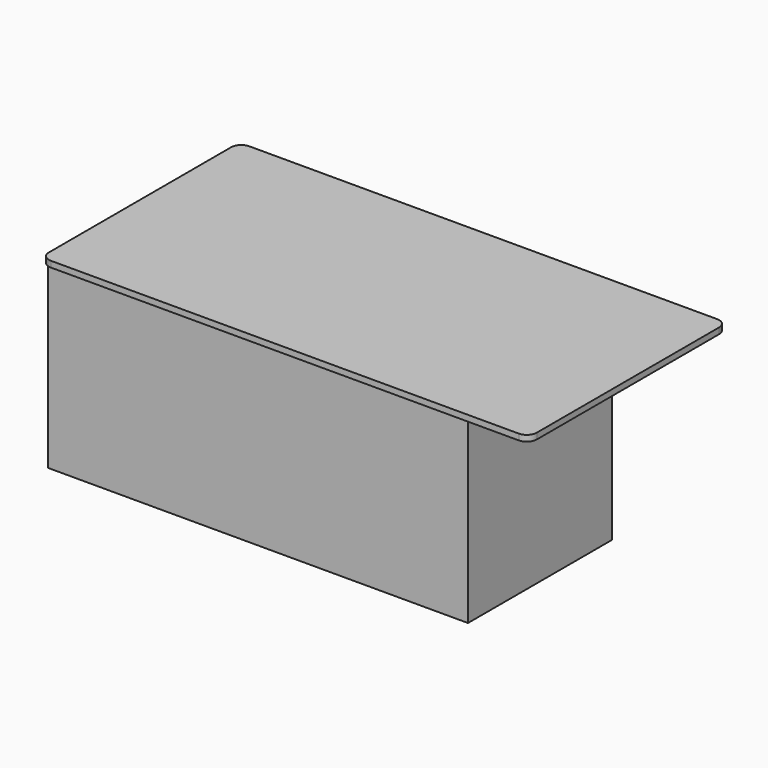
from build123d import *

# Parameters (mm, degrees)
F0_W     = 2400
F0_H     = 1200
F1_DEPTH = 900
F2_W     = 2440
F2_H     = 1240
F3_DEPTH = 30
F4_W     = 300
F4_H     = 300
F4_W_2   = 900
F4_H_2   = 900
F5_DEPTH = 900
F6_R     = 50


with BuildPart() as f1:
    # F0 (on Top) → F1 (new body)
    with BuildSketch(Plane.XY):
        with Locations((11.786235, -165.532895)):
            Rectangle(F0_W, F0_H)
    extrude(amount=F1_DEPTH)

    # F2 (on face) → F3 (join)
    with BuildSketch(Plane.XY.offset(900)):
        with Locations((11.786235, -165.532895)):
            Rectangle(F2_W, F2_H)
    extrude(amount=F3_DEPTH)

    # F4 (on face) → F5 (cut)
    with BuildSketch(Plane(origin=(0, 0, 0), x_dir=(1, 0, 0), z_dir=(0, 0, -1))):
        with Locations((1061.786235, -284.467105)):
            Rectangle(F4_W, F4_H)
        with Locations((461.786235, -284.467105)):
            Rectangle(F4_W_2, F4_H)
        with Locations((1061.786235, 315.532895)):
            Rectangle(F4_W, F4_H_2)
    extrude(amount=-F5_DEPTH, mode=Mode.SUBTRACT)

    # F6
    f6_edges = [f1.edges().sort_by_distance(p)[0] for p in [
        (1231.786235, 454.467105, 915),
        (1231.786235, -785.532895, 915),
        (-1208.213765, 454.467105, 915),
        (-1208.213765, -785.532895, 915),
    ]]
    fillet(f6_edges, radius=F6_R)


solid = f1.part
